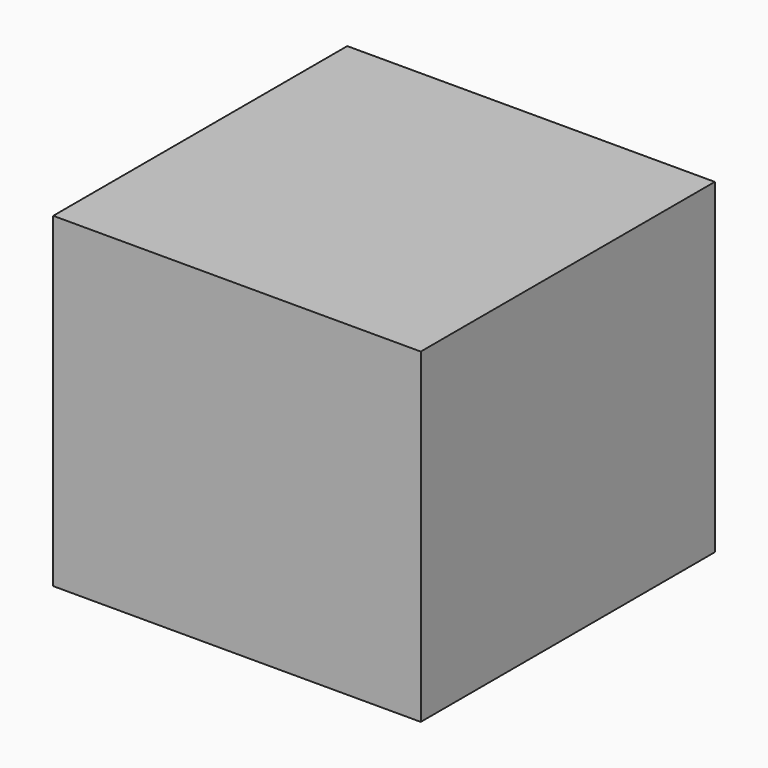
from build123d import *

# Parameters (mm, degrees)
SKETCH_W  = 18.6
SKETCH_H  = 18.6
PAD_DEPTH = 16.5


with BuildPart() as part:
    # Sketch → Pad (new body)
    with BuildSketch(Plane.XY):
        Rectangle(SKETCH_W, SKETCH_H)
    extrude(amount=PAD_DEPTH)


solid = part.part
